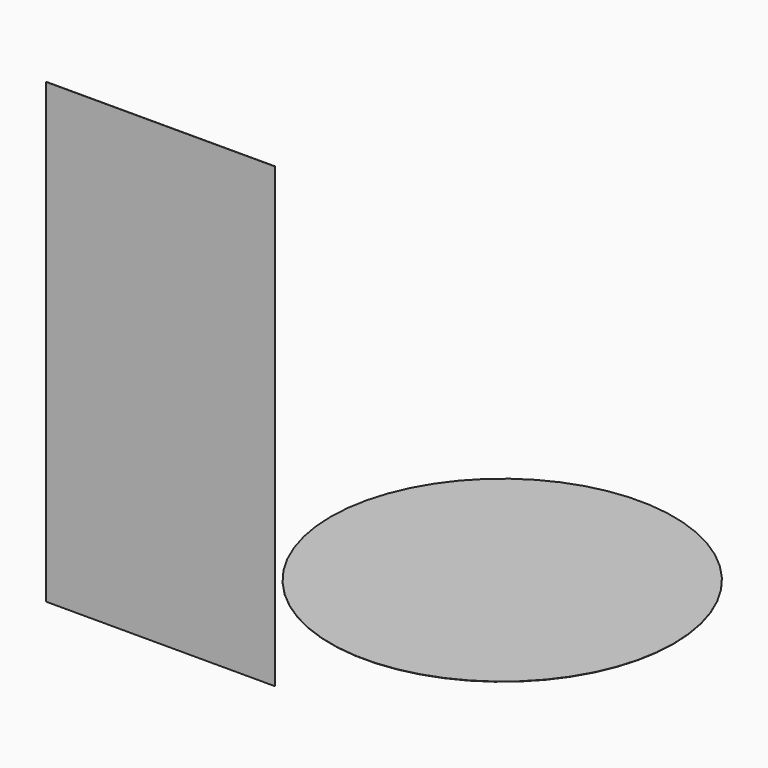
from build123d import *

# Parameters (mm, degrees)
F1_W     = 25.4
F1_H     = 50.8
F2_DEPTH = 0.0254
F0_R     = 19.05
F3_DEPTH = 0.0254


with BuildPart() as f2:
    # F1 (on Front) → F2 (new body)
    with BuildSketch(Plane.XZ):
        with Locations((-37.920754, 6.865177)):
            Rectangle(F1_W, F1_H)
    extrude(amount=F2_DEPTH)


with BuildPart() as f3:
    # F0 (on Top) → F3 (new body)
    with BuildSketch(Plane.XY):
        Circle(F0_R)
    extrude(amount=F3_DEPTH)


solid = Compound([f2.part, f3.part])
